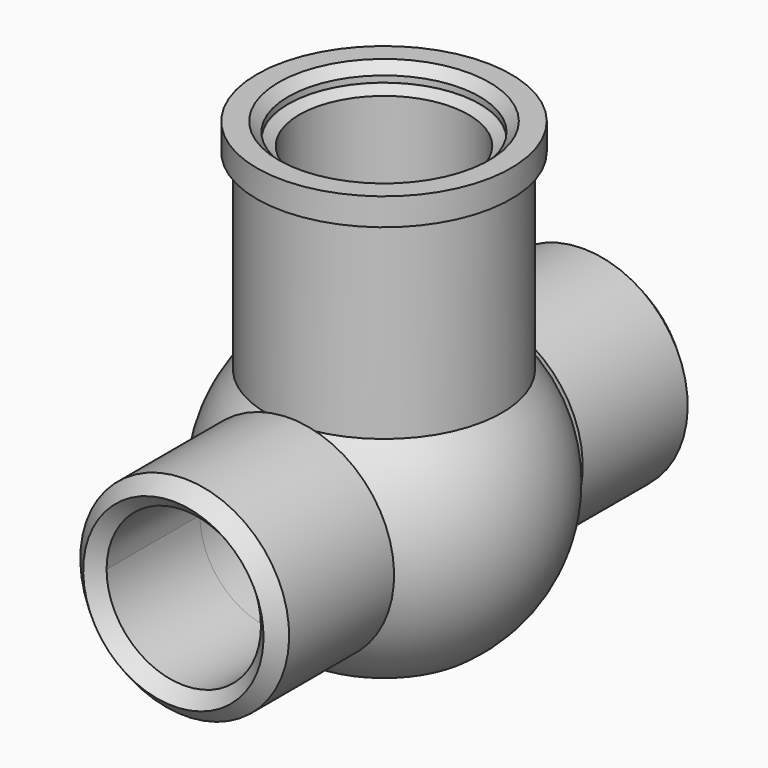
from build123d import *

# Parameters (mm, degrees)
F5_D     = 17
F5_DEPTH = 29
F5_TIP   = 5.1073152617
F6_D     = 17
F6_DEPTH = 29
F6_TIP   = 5.1073152617


with BuildPart() as f2:
    # F0 (on Front) → F2 (revolve)
    with BuildSketch(Plane.XZ):
        with BuildLine():
            Line((-9.3155, 9.5151098654), (-9.3155, 14.2204591962))
            ThreePointArc((-9.3155, 14.2204591962), (-11.2766168332, 12.7215530812), (-13, 10.9544511501))
            ThreePointArc((-13, 10.9544511501), (-16.8567978778, -2.2019003855), (-9.75, -13.9261444772))
            Line((-9.75, -13.9261444772), (-9.75, -9.069363594))
            ThreePointArc((-9.75, -9.069363594), (-13.3123621496, 0.311239453), (-9.3155, 9.5151098654))
        make_face()
        with BuildLine():
            ThreePointArc((-13, 10.9544511501), (-11.2766168332, 12.7215530812), (-9.3155, 14.2204591962))
            Line((-9.3155, 14.2204591962), (-9.3155, 19.2122588888))
            Line((-9.3155, 19.2122588888), (-10.4775, 19.2122588888))
            Line((-10.4775, 19.2122588888), (-10.4775, 33.2122588888))
            Line((-10.4775, 33.2122588888), (-10.55, 33.25))
            Line((-10.55, 33.25), (-10.55, 33.95))
            Line((-10.55, 33.95), (-11.6, 35))
            Line((-11.6, 35), (-14, 35))
            Line((-14, 35), (-14, 32))
            Line((-14, 32), (-13, 32))
            Line((-13, 32), (-13, 10.9544511501))
        make_face()
        Polygon((-10.4775, 19.2122588888), (-9.3155, 19.2122588888), (-9.3155, 32.6073599761), (-10.4775, 33.2122588888), align=None)
    revolve(axis=Axis((0, 0, 10.842), (0, 0, -1)))

    # F1 (on Right) → F3 (revolve)
    with BuildSketch(Plane.YZ):
        with BuildLine():
            Line((27.5668407641, 8.5), (29, 9.9331592359))
            Line((29, 9.9331592359), (27.4331592359, 11.5))
            Line((27.4331592359, 11.5), (12.9851644874, 11.5))
            Line((12.9851644874, 11.5), (12.9851644874, 10.9720327759))
            ThreePointArc((12.9851644874, 10.9720327759), (13.9088267086, 9.7746887209), (14.7224318643, 8.5))
            Line((14.7224318643, 8.5), (27.5668407641, 8.5))
        make_face()
    revolve(axis=Axis((0, 4.3193821889, 0), (0, -1, 0)))

    # F1 (on Right) → F4 (revolve)
    with BuildSketch(Plane.YZ):
        with BuildLine():
            Line((-27.5668407641, 8.5), (-14.7224318643, 8.5))
            ThreePointArc((-14.7224318643, 8.5), (-13.9088267086, 9.7746887209), (-12.9851644874, 10.9720327759))
            Line((-12.9851644874, 10.9720327759), (-12.9851644874, 11.5))
            Line((-12.9851644874, 11.5), (-27.4331592359, 11.5))
            Line((-27.4331592359, 11.5), (-29, 9.9331592359))
            Line((-29, 9.9331592359), (-27.5668407641, 8.5))
        make_face()
    revolve(axis=Axis((0, 4.3193821889, 0), (0, -1, 0)))

    # F5 (one way)
    with BuildSketch(Plane(origin=(0, 0, 0), x_dir=(1, 0, 0), z_dir=(0, 1, 0))):
        with Locations((0, 0)):
            Circle(F5_D / 2)
    extrude(amount=-F5_DEPTH, mode=Mode.SUBTRACT)
    with Locations(Plane(origin=(0, 0, 0), x_dir=(1, 0, 0), z_dir=(0, 1, 0))):
        with Locations((0, 0)):
            with Locations((0, 0, -(F5_DEPTH + F5_TIP / 2))):  # 118° drill point
                Cone(0, F5_D / 2, F5_TIP, mode=Mode.SUBTRACT)

    # F6
    with Locations(Plane.XZ):
        with Locations((0, 0)):
            Hole(F6_D / 2, depth=F6_DEPTH)
            with Locations((0, 0, -(F6_DEPTH + F6_TIP / 2))):  # 118° drill point
                Cone(0, F6_D / 2, F6_TIP, mode=Mode.SUBTRACT)


solid = f2.part
